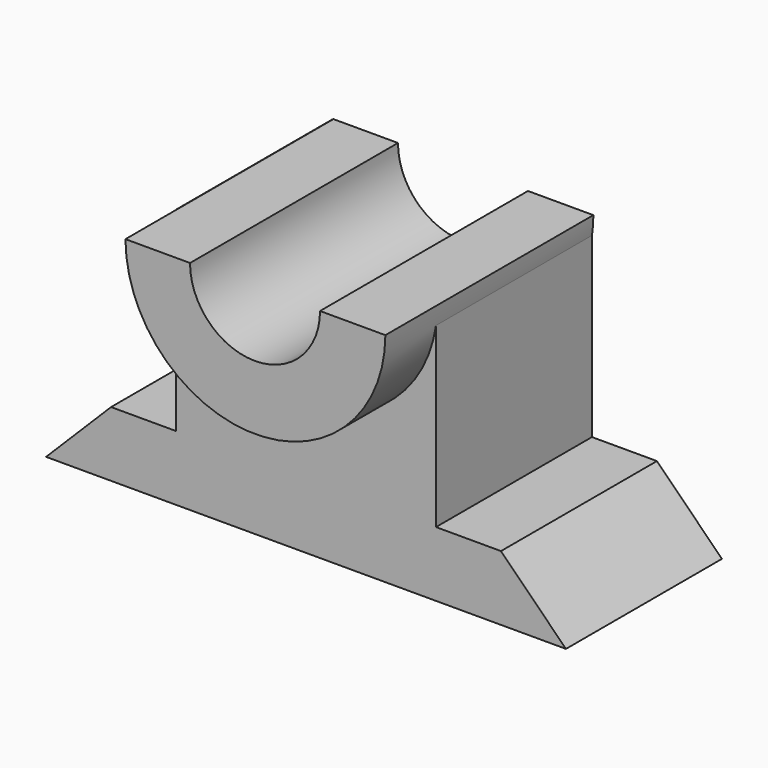
from build123d import *

# Parameters (mm, degrees)
F1_DEPTH = 30
F3_DEPTH = 40
F5_DEPTH = 50.6
F7_DEPTH = 72.9


with BuildPart() as f1:
    # F0 (on Front) → F1 (new body)
    with BuildSketch(Plane.XZ):
        Polygon((-55.277854, 10), (-65.277854, 0), (14.722146, 0), (4.722146, 10), (-5.277854, 10), (-5.277854, 40), (-45.277854, 40), (-45.277854, 10), align=None)
    extrude(amount=F1_DEPTH)

    # F2 (on Front) → F3 (join)
    with BuildSketch(Plane.XZ):
        with BuildLine():
            ThreePointArc((-45.065299, 40.219937), (-25.065299, 20.219937), (-5.065299, 40.219937))
            ThreePointArc((-5.065299, 40.219937), (-25.065299, 60.219937), (-45.065299, 40.219937))
        make_face()
    extrude(amount=F3_DEPTH)

    # F4 (on Front) → F5 (cut)
    with BuildSketch(Plane.XZ):
        with BuildLine():
            ThreePointArc((-35.12593, 40.110912), (-25.12593, 30.110912), (-15.12593, 40.110912))
            ThreePointArc((-15.12593, 40.110912), (-25.12593, 50.110912), (-35.12593, 40.110912))
        make_face()
    extrude(amount=F5_DEPTH, mode=Mode.SUBTRACT)

    # F6 (on Front) → F7 (cut)
    with BuildSketch(Plane.XZ):
        Polygon((-45.997363, 66.289328), (-45.592666, 40.134739), (-1.902011, 40.134739), (-3.919857, 66.289328), align=None)
    extrude(amount=F7_DEPTH, mode=Mode.SUBTRACT)


solid = f1.part
